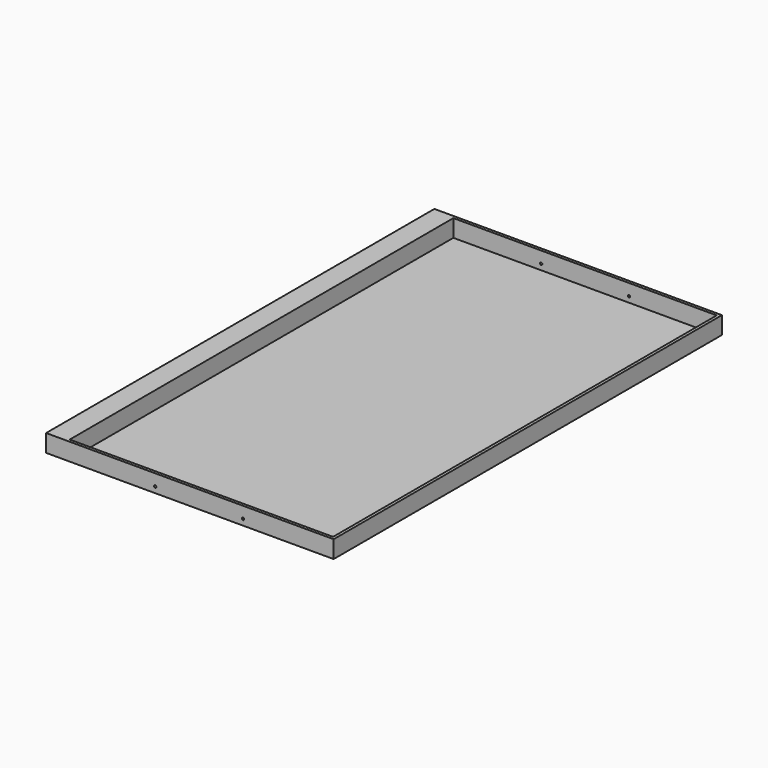
from build123d import *

# Parameters (mm, degrees)
F0_W     = 4966
F0_H     = 8382
F0_W_2   = 4548
F0_H_2   = 8282
F1_DEPTH = 300
F2_W     = 4966
F2_H     = 8382
F3_DEPTH = 2
F4_R     = 20
F5_DEPTH = 8382.001


with BuildPart() as f1:
    # F0 (on Top) → F1 (new body)
    with BuildSketch(Plane.XY):
        with Locations((2483, 4191)):
            Rectangle(F0_W, F0_H)
        with Locations((2642, 4191)):
            Rectangle(F0_W_2, F0_H_2, mode=Mode.SUBTRACT)
    extrude(amount=F1_DEPTH)

    # F2 (on face) → F3 (join)
    with BuildSketch(Plane(origin=(0, 0, 0), x_dir=(1, 0, 0), z_dir=(0, 0, -1))):
        with Locations((2483, -4191)):
            Rectangle(F2_W, F2_H)
    extrude(amount=F3_DEPTH)

    # F4 (on face) → F5 (cut, through all)
    with BuildSketch(Plane.XZ):
        with Locations((1884, 100)):
            Circle(F4_R)
        with Locations((3400, 100)):
            Circle(F4_R)
    extrude(amount=-F5_DEPTH, mode=Mode.SUBTRACT)


solid = f1.part
